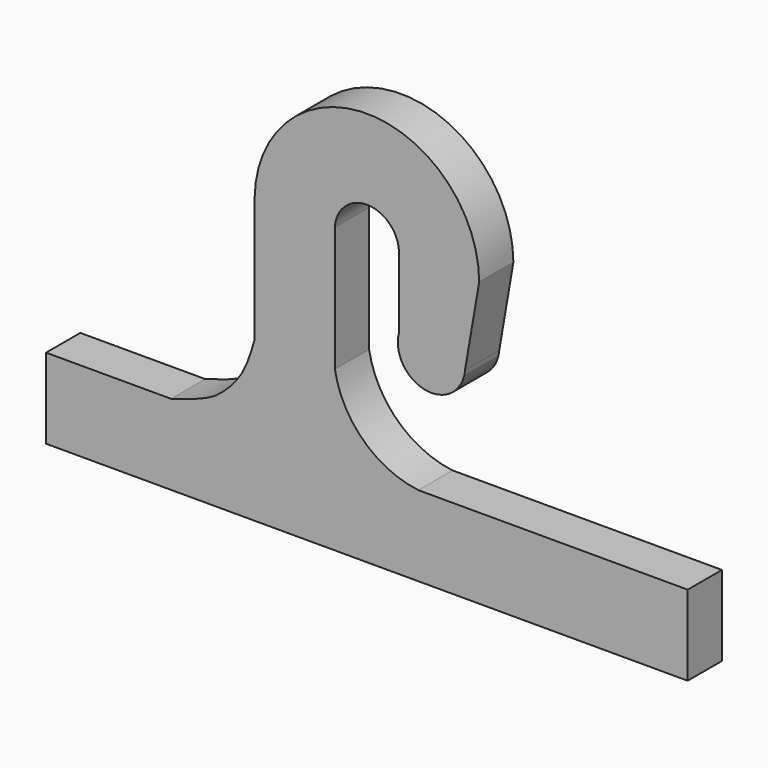
from build123d import *

# Parameters (mm, degrees)
F1_DEPTH = 8


with BuildPart() as f1:
    # F0 (on Front) → F1 (new body)
    with BuildSketch(Plane.XZ):
        with BuildLine():
            Line((18.3469315144, 5.9655109539), (20.9992617956, 21.3784781252))
            ThreePointArc((20.9992617956, 21.3784781252), (0.1249015369, 42.2834629222), (-20.9966564617, 21.6282676124))
            Line((-20.9966564617, 21.6282676124), (-20.9966564617, -1.7508006927))
            add(Edge.make_bspline(
                [(-21.0375948323, -1.8897012773), (-21.0239493062, -1.8434000403), (-21.0103048446, -1.7970993287), (-20.9966564617, -1.7508006927)],
                knots=[0.9931808639, 0.9931808639, 0.9931808639, 0.9931808639, 1, 1, 1, 1], degree=3))
            add(Edge.make_bspline(
                [(-23.311607346, -7.9496343517), (-22.2567283878, -6.0202595283), (-21.6461032363, -3.9544580126), (-21.0375948323, -1.8897012773)],
                knots=[0.6890883985, 0.6890883985, 0.6890883985, 0.6890883985, 0.9931808639, 0.9931808639, 0.9931808639, 0.9931808639], degree=3))
            add(Edge.make_bspline(
                [(-28.2252900615, -13.3057116458), (-26.0825142955, -11.9279404299), (-24.4419956281, -10.0171158148), (-23.311607346, -7.9496343517)],
                knots=[0.3632286809, 0.3632286809, 0.3632286809, 0.3632286809, 0.6890883985, 0.6890883985, 0.6890883985, 0.6890883985], degree=3))
            add(Edge.make_bspline(
                [(-36.6373678698, -16.5920499712), (-33.6263584299, -15.7149316784), (-30.6137952155, -14.8414830049), (-28.2252900615, -13.3057116458)],
                knots=[0, 0, 0, 0, 0.3632286809, 0.3632286809, 0.3632286809, 0.3632286809], degree=3))
            Line((-36.6373678698, -16.5920499712), (-60, -16.5920499712))
            Line((-60, -16.5920499712), (-60, -31.5920499712))
            Line((-60, -31.5920499712), (60, -31.5920499712))
            Line((60, -31.5920499712), (60, -16.5920499712))
            Line((60, -16.5920499712), (9.6341452579, -16.5920499712))
            ThreePointArc((9.6341452579, -16.5920499712), (-0.638590167, -11.7618423985), (-5.9901359502, -1.7508006927))
            Line((-5.9901359502, -1.7508006927), (-5.9901359502, 1.160080022))
            Line((-5.9901359502, 1.160080022), (-5.9901359502, 20.940455724))
            ThreePointArc((-5.9901359502, 20.940455724), (-6, 21.2843616682), (-5.9901359502, 21.6282676124))
            ThreePointArc((-5.9901359502, 21.6282676124), (0, 27.2843616682), (5.9901359502, 21.6282676124))
            Line((5.9901359502, 21.6282676124), (5.9992617956, 21.6282676124))
            Line((5.9992617956, 21.6282676124), (5.9992617956, 21.3784781252))
            ThreePointArc((5.9992617956, 21.3784781252), (6, 21.2843616682), (5.9992617956, 21.1902452111))
            Line((5.9992617956, 21.1902452111), (5.9992617956, 8.1959165921))
            Line((5.9992617956, 8.1959165921), (6.0103126276, 8.1929609357))
            ThreePointArc((6.0103126276, 8.1929609357), (6.0047534058, 8.1727079211), (5.9992617956, 8.1524364691))
            ThreePointArc((5.9992617956, 8.1524364691), (10.4711267055, 0.4310945937), (18.1705571166, 4.9405809808))
            Line((18.1705571166, 4.9405809808), (18.3469315144, 5.9655109539))
        make_face()
        Polygon((-20.9966564617, -1.7508006927), (-20.9966564617, 21.6282676124), (-21.0130866617, -1.7508006927), align=None)
        with BuildLine():
            ThreePointArc((18.1705571166, 4.9405809808), (18.2799498035, 5.449396835), (18.3469315144, 5.9655109539))
            Line((18.3469315144, 5.9655109539), (18.1705571166, 4.9405809808))
        make_face()
        with BuildLine():
            add(Edge.make_bspline(
                [(-21.0375948323, -1.8897012773), (-21.0239493062, -1.8434000403), (-21.0103048446, -1.7970993287), (-20.9966564617, -1.7508006927)],
                knots=[0.9931808639, 0.9931808639, 0.9931808639, 0.9931808639, 1, 1, 1, 1], degree=3))
            Line((-20.9966564617, -1.7508006927), (-21.0130866617, -1.7508006927))
            ThreePointArc((-21.0130866617, -1.7508006927), (-21.0252049482, -1.8202749459), (-21.0375948323, -1.8897012773))
        make_face()
        with BuildLine():
            add(Edge.make_bspline(
                [(-28.2252900615, -13.3057116458), (-26.0825142955, -11.9279404299), (-24.4419956281, -10.0171158148), (-23.311607346, -7.9496343517)],
                knots=[0.3632286809, 0.3632286809, 0.3632286809, 0.3632286809, 0.6890883985, 0.6890883985, 0.6890883985, 0.6890883985], degree=3))
            ThreePointArc((-23.311607346, -7.9496343517), (-25.4958010969, -10.8778007993), (-28.2252900615, -13.3057116458))
        make_face()
        with BuildLine():
            Line((5.9992617956, 21.3784781252), (5.9992617956, 21.1902452111))
            ThreePointArc((5.9992617956, 21.1902452111), (6, 21.2843616682), (5.9992617956, 21.3784781252))
        make_face()
        with BuildLine():
            ThreePointArc((5.9901359502, 21.6282676124), (5.9959997727, 21.5034203961), (5.9992617956, 21.3784781252))
            Line((5.9992617956, 21.3784781252), (5.9992617956, 21.6282676124))
            Line((5.9992617956, 21.6282676124), (5.9901359502, 21.6282676124))
        make_face()
        with BuildLine():
            Line((-5.9901359502, 20.940455724), (-5.9901359502, 21.6282676124))
            ThreePointArc((-5.9901359502, 21.6282676124), (-6, 21.2843616682), (-5.9901359502, 20.940455724))
        make_face()
    extrude(amount=F1_DEPTH)


solid = f1.part
